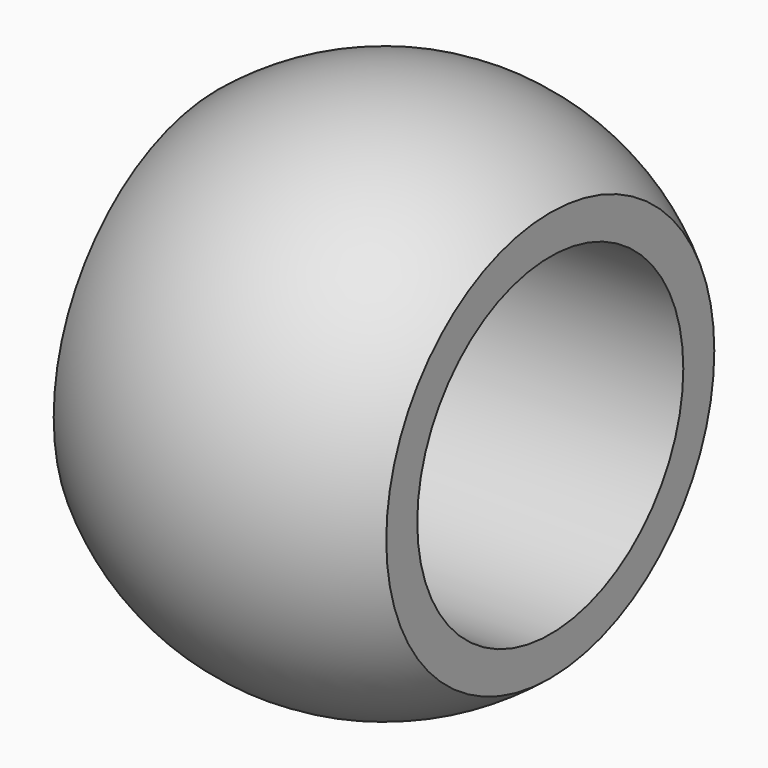
from build123d import *


with BuildPart() as f1:
    # F0 (on Top) → F1 (revolve)
    with BuildSketch(Plane.XY):
        with BuildLine():
            Line((15, 15), (15, 18.494193))
            ThreePointArc((15, 18.494193), (0, 23.8125), (-15, 18.494193))
            Line((-15, 18.494193), (-15, 15))
            Line((-15, 15), (15, 15))
        make_face()
    revolve(axis=Axis((9.330053, 0, 0), (1, 0, 0)))


solid = f1.part
